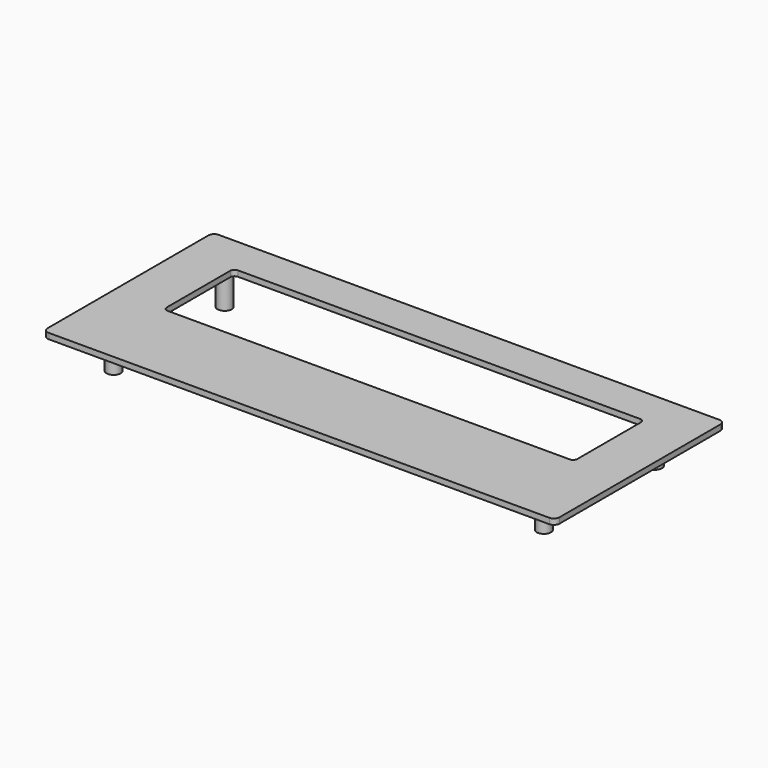
from build123d import *

# Parameters (mm, degrees)
F1_DEPTH = 2
F2_R     = 2.5
F2_R_2   = 1.25
F3_DEPTH = 11


with BuildPart() as f1:
    # F0 (on Top) → F1 (new body)
    with BuildSketch(Plane.XY):
        with BuildLine():
            ThreePointArc((0, 2), (0.585786, 0.585786), (2, 0))
            Line((2, 0), (178.8, 0))
            ThreePointArc((178.8, 0), (180.214214, 0.585786), (180.8, 2))
            Line((180.8, 2), (180.8, 73))
            ThreePointArc((180.8, 73), (180.214214, 74.414214), (178.8, 75))
            Line((178.8, 75), (2, 75))
            ThreePointArc((2, 75), (0.585786, 74.414214), (0, 73))
            Line((0, 73), (0, 2))
        make_face()
        with BuildLine():
            ThreePointArc((17.9, 60.25), (18.33934, 61.31066), (19.4, 61.75))
            Line((19.4, 61.75), (161.4, 61.75))
            ThreePointArc((161.4, 61.75), (162.46066, 61.31066), (162.9, 60.25))
            Line((162.9, 60.25), (162.9, 32.25))
            ThreePointArc((162.9, 32.25), (162.46066, 31.18934), (161.4, 30.75))
            Line((161.4, 30.75), (19.4, 30.75))
            ThreePointArc((19.4, 30.75), (18.33934, 31.18934), (17.9, 32.25))
            Line((17.9, 32.25), (17.9, 60.25))
        make_face(mode=Mode.SUBTRACT)
    extrude(amount=F1_DEPTH)

    # F2 (on face) → F3 (join)
    with BuildSketch(Plane(origin=(0, 0, 0), x_dir=(1, 0, 0), z_dir=(0, 0, -1))):
        with Locations((14.5, -13)):
            Circle(F2_R)
        with Locations((14.5, -13)):
            Circle(F2_R_2, mode=Mode.SUBTRACT)
        with Locations((14.5, -62)):
            Circle(F2_R)
        with Locations((14.5, -62)):
            Circle(F2_R_2, mode=Mode.SUBTRACT)
        with Locations((166.5, -62)):
            Circle(F2_R)
        with Locations((166.5, -62)):
            Circle(F2_R_2, mode=Mode.SUBTRACT)
        with Locations((166.5, -13)):
            Circle(F2_R)
        with Locations((166.5, -13)):
            Circle(F2_R_2, mode=Mode.SUBTRACT)
    extrude(amount=F3_DEPTH)


solid = f1.part
